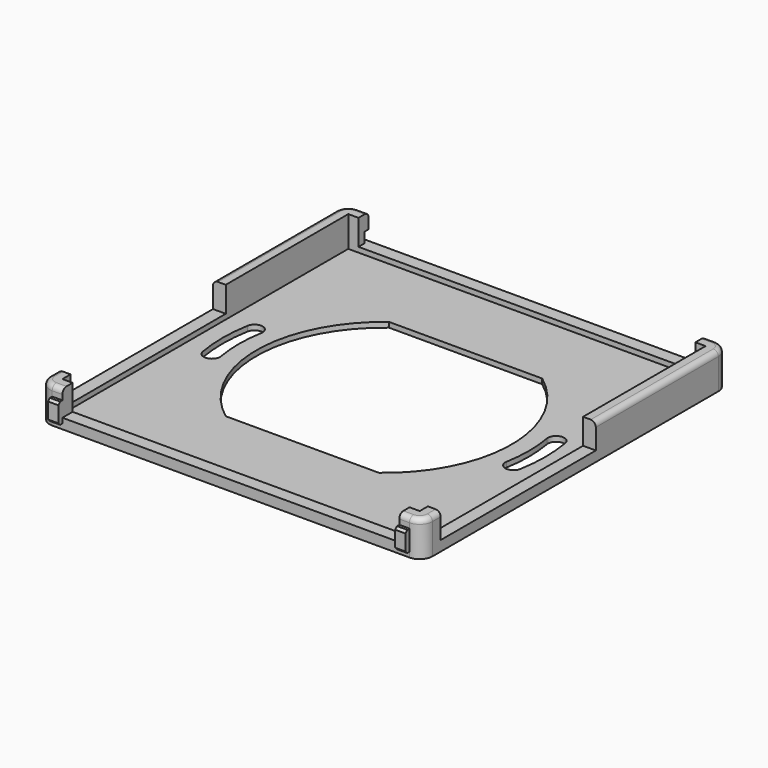
from build123d import *

# Parameters (mm, degrees)
PAD003_DEPTH    = 7
POCKET002_DEPTH = 7
POCKET008_DEPTH = 10
POCKET009_DEPTH = 6
SKETCH020_W     = 66
SKETCH020_H     = 2.5
SKETCH020_W_2   = 2.5
SKETCH020_H_2   = 38
PAD009_DEPTH    = 1
SKETCH021_W     = 2
SKETCH021_H     = 4
PAD010_DEPTH    = 1
CHAMFER_SIZE    = 0.45
FILLET001_R     = 1
SKETCH022_W     = 75.000016
SKETCH022_H     = 2
POCKET010_DEPTH = 1


with BuildPart() as part:
    # Sketch006 → Pad003 (new body)
    with BuildSketch(Plane.XY):
        with BuildLine():
            Line((-35, -37.5), (34.999998, -37.5))
            ThreePointArc((34.999998, -37.5), (36.767767, -36.767767), (37.5, -34.999999))
            Line((37.5, 35.000016), (37.5, -34.999999))
            ThreePointArc((37.5, 35.000016), (36.767767, 36.767767), (35.000016, 37.5))
            Line((35.000016, 37.5), (-35, 37.5))
            ThreePointArc((-35, 37.5), (-36.767767, 36.767767), (-37.5, 34.999999))
            Line((-37.5, 34.999999), (-37.5, -35))
            ThreePointArc((-37.5, -35), (-36.767767, -36.767767), (-35, -37.5))
        make_face()
    extrude(amount=PAD003_DEPTH)

    # Sketch007 → Pocket002 (cut)
    with BuildSketch(Plane(origin=(0, 0, 0), x_dir=(1, 0, 0), z_dir=(0, 0, -1))):
        with BuildLine():
            Line((-15, 20), (15, 20))
            ThreePointArc((15, -20), (25, 0), (15, 20))
            Line((-15, -20), (15, -20))
            ThreePointArc((-15, 20), (-25, 0), (-15, -20))
        make_face()
    extrude(amount=-POCKET002_DEPTH, mode=Mode.SUBTRACT)

    # Sketch009 → Pocket008 (cut)
    with BuildSketch(Plane(origin=(0, 0, 0), x_dir=(1, 0, 0), z_dir=(0, 0, -1))):
        with BuildLine():
            ThreePointArc((-27.96854, 4.931608), (-28.4, 0), (-27.96854, -4.931608))
            ThreePointArc((-31.119925, -5.487282), (-29.266396, -6.785138), (-27.96854, -4.931608))
            ThreePointArc((-31.119925, 5.487282), (-31.6, 0), (-31.119925, -5.487282))
            ThreePointArc((-27.96854, 4.931608), (-29.266396, 6.785138), (-31.119925, 5.487282))
        make_face()
        with BuildLine():
            ThreePointArc((27.96854, -4.931608), (28.4, -4e-06), (27.968542, 4.9316))
            ThreePointArc((31.119923, 5.487291), (29.266387, 6.785136), (27.968542, 4.9316))
            ThreePointArc((31.119925, -5.487282), (31.6, 5e-06), (31.119923, 5.487291))
            ThreePointArc((27.96854, -4.931608), (29.266396, -6.785138), (31.119925, -5.487282))
        make_face()
    extrude(amount=-POCKET008_DEPTH, mode=Mode.SUBTRACT)

    # Sketch019 → Pocket009 (cut)
    with BuildSketch(Plane.XY.offset(7)):
        Polygon((35, -35), (33, -35), (33, -37.5), (-33, -37.5), (-33, -35), (-35, -35), (-35, -33), (-37.5, -33), (-37.5, 5), (-35, 5), (-35, 35), (-33, 35), (-33, 37.5), (33, 37.5), (33, 35), (35, 35), (35, 5), (37.5, 5), (37.5, -33), (35, -33), align=None)
    extrude(amount=-POCKET009_DEPTH, mode=Mode.SUBTRACT)

    # Sketch020 → Pad009 (new body)
    with BuildSketch(Plane.XY.offset(1)):
        with Locations((0, -36.25)):
            Rectangle(SKETCH020_W, SKETCH020_H)
        with Locations((36.25, -14)):
            Rectangle(SKETCH020_W_2, SKETCH020_H_2)
        with Locations((0, 36.25)):
            Rectangle(SKETCH020_W, SKETCH020_H)
        with Locations((-36.25, -14)):
            Rectangle(SKETCH020_W_2, SKETCH020_H_2)
    extrude(amount=PAD009_DEPTH)

    # Sketch021 → Pad010 (new body)
    with BuildSketch(Plane.XZ.offset(37.5)):
        with Locations((-34, 3)):
            Rectangle(SKETCH021_W, SKETCH021_H)
        with Locations((34, 3)):
            Rectangle(SKETCH021_W, SKETCH021_H)
    extrude(amount=PAD010_DEPTH)

    # Chamfer
    chamfer_edges = [part.edges().sort_by_distance(p)[0] for p in [
        (-34, -38.5, 5),
        (-34, -38.5, 1),
        (34, -38.5, 5),
        (34, -38.5, 1),
    ]]
    chamfer(chamfer_edges, length=CHAMFER_SIZE)

    # Fillet001
    fillet001_edges = [part.edges().sort_by_distance(p)[0] for p in [
        (-37.5, -34, 7),
        (-36.767767, -36.767767, 7),
        (-34, -37.5, 7),
        (33.999999, -37.5, 7),
        (36.767767, -36.767767, 7),
        (37.5, -34, 7),
        (-37.5, 20, 7),
        (-36.767767, 36.767767, 7),
        (-34, 37.5, 7),
        (34.000008, 37.5, 7),
        (36.767767, 36.767767, 7),
        (37.5, 20.000008, 7),
    ]]
    fillet(fillet001_edges, radius=FILLET001_R)

    # Sketch022 → Pocket010 (cut)
    with BuildSketch(Plane(origin=(0, 37.5, 0), x_dir=(-1, 0, 0), z_dir=(0, 1, 0))):
        with Locations((-8e-06, 3)):
            Rectangle(SKETCH022_W, SKETCH022_H)
    extrude(amount=-POCKET010_DEPTH, mode=Mode.SUBTRACT)


solid = part.part
